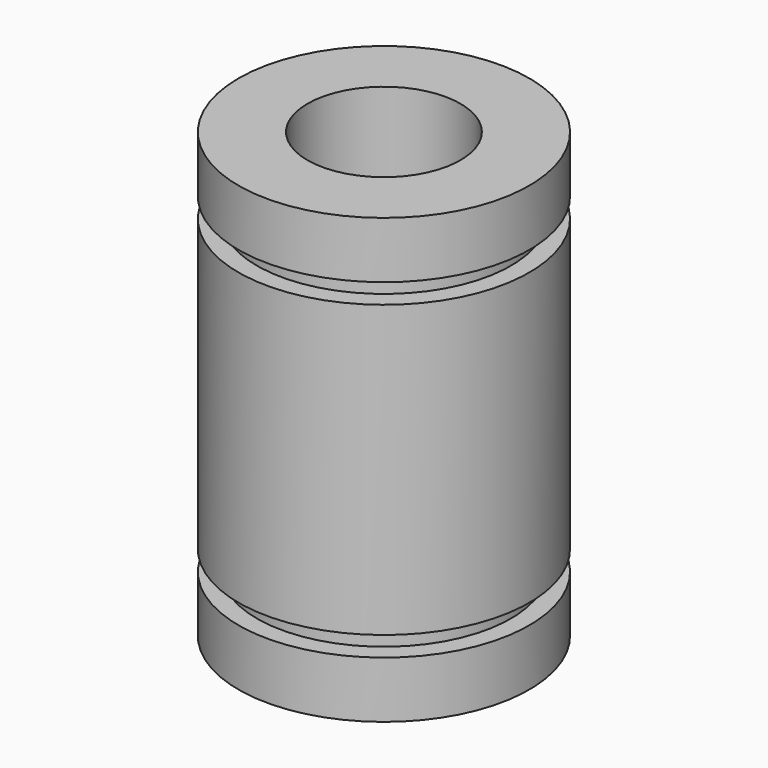
from build123d import *

# Parameters (mm, degrees)
F3_D = 10


with BuildPart() as f1:
    # F0 (on Front) → F1 (revolve)
    with BuildSketch(Plane.XZ):
        Polygon((0, 0), (0, 14.5), (-9.5, 14.5), (-9.5, 10.8), (-8.3, 10.8), (-8.3, 9.5), (-9.5, 9.5), (-9.5, 0), (-9.5, -9.5), (-8.3, -9.5), (-8.3, -10.8), (-9.5, -10.8), (-9.5, -14.5), (0, -14.5), align=None)
    revolve(axis=Axis((0, 0, 7.25), (0, 0, -1)))

    # F3 (through all)
    with Locations(Plane.XY.offset(14.5)):
        with Locations((0, 0)):
            Hole(F3_D / 2)


with BuildPart() as f4_1:
    # F4: copy of F1
    add(f1.part)


solid = Compound([f1.part, f4_1.part])
